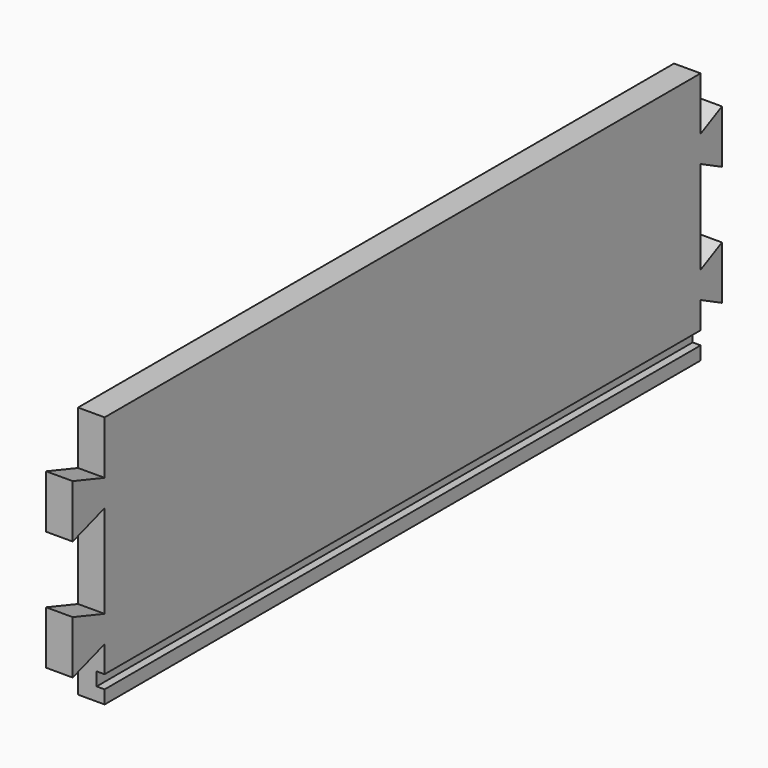
from build123d import *

# Parameters (mm, degrees)
F0_W     = 305
F0_H     = 95
F1_DEPTH = 10
F3_DEPTH = 25
F4_W     = 290
F4_H     = 5
F5_DEPTH = 3
F7_DEPTH = 25


with BuildPart() as f1:
    # F0 (on Right) → F1 (new body)
    with BuildSketch(Plane.YZ):
        with Locations((70.039693, 8.401494)):
            Rectangle(F0_W, F0_H)
    extrude(amount=F1_DEPTH)

    # F2 (on face) → F3 (cut)
    with BuildSketch(Plane.YZ.offset(10)):
        Polygon((-82.460307, 55.901494), (-82.460307, 40.901494), (-67.460307, 35.901494), (-67.460307, 55.901494), align=None)
        Polygon((-67.460307, 25.901494), (-82.460307, 20.901494), (-82.460307, -4.098506), (-67.460307, -9.098506), align=None)
        Polygon((-67.460307, -19.098506), (-82.460307, -24.098506), (-82.460307, -39.098506), (-67.460307, -39.098506), align=None)
    extrude(amount=-F3_DEPTH, mode=Mode.SUBTRACT)

    # F4 (on face) → F5 (cut)
    with BuildSketch(Plane.YZ.offset(10)):
        with Locations((77.539693, -31.598506)):
            Rectangle(F4_W, F4_H)
    extrude(amount=-F5_DEPTH, mode=Mode.SUBTRACT)

    # F6 (on face) → F7 (cut)
    with BuildSketch(Plane(origin=(0, 0, 0), x_dir=(0, -1, 0), z_dir=(-1, 0, 0))):
        Polygon((-212.539693, 25.901494), (-222.539693, 20.901494), (-222.539693, -4.098506), (-212.539693, -9.098506), align=None)
        Polygon((-212.539693, -19.098506), (-222.539693, -24.098506), (-222.539693, -39.098506), (-212.539693, -39.098506), align=None)
        Polygon((-212.539693, 55.901494), (-222.539693, 55.901494), (-222.539693, 40.901494), (-212.539693, 35.901494), align=None)
    extrude(amount=-F7_DEPTH, mode=Mode.SUBTRACT)


solid = f1.part
